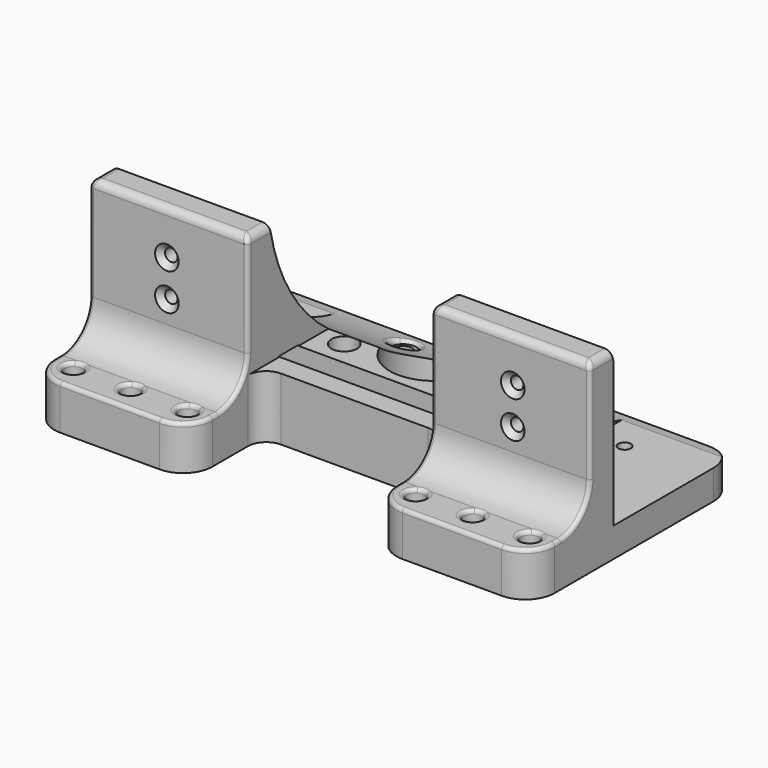
from build123d import *

# Parameters (mm, degrees)
SKETCH_W        = 136
SKETCH_H        = 70
PAD_DEPTH       = 50
SKETCH001_R     = 51.2
SKETCH001_W     = 6.5
SKETCH001_H     = 6.5
POCKET_DEPTH    = 136.001
SKETCH002_W     = 100
SKETCH002_H     = 100
POCKET001_DEPTH = 29
SKETCH003_W     = 100
SKETCH003_H     = 100
POCKET002_DEPTH = 29
SKETCH004_R     = 1.7
SKETCH004_W     = 50
SKETCH004_H     = 100
POCKET003_DEPTH = 70.001
SKETCH005_R     = 1.7
SKETCH005_R_2   = 12
SKETCH005_R_3   = 2.5
POCKET004_DEPTH = 50.001
SKETCH006_R     = 3.5
POCKET005_DEPTH = 10
SKETCH007_R     = 2.6
POCKET006_DEPTH = 5
SKETCH008_R     = 1.5
POCKET007_DEPTH = 15
SKETCH009_R     = 1.5
POCKET008_DEPTH = 15
FILLET_R        = 8
FILLET001_R     = 8
FILLET002_R     = 8
FILLET003_R     = 8
FILLET004_R     = 8
FILLET005_R     = 8
CHAMFER_SIZE    = 1.5
CHAMFER001_SIZE = 1.5
CHAMFER002_SIZE = 1.5
CHAMFER003_SIZE = 1.5
CHAMFER004_SIZE = 1.5
CHAMFER005_SIZE = 1.5
CHAMFER006_SIZE = 1.5
CHAMFER007_SIZE = 1.5
CHAMFER008_SIZE = 1
CHAMFER009_SIZE = 1
CHAMFER010_SIZE = 1
CHAMFER011_SIZE = 1
CHAMFER012_SIZE = 1
CHAMFER013_SIZE = 1
FILLET006_R     = 1
FILLET007_R     = 1
FILLET008_R     = 1
FILLET009_R     = 1
FILLET010_R     = 1
FILLET011_R     = 1
FILLET012_R     = 1
FILLET013_R     = 1
FILLET014_R     = 2
FILLET015_R     = 2
FILLET016_R     = 1
FILLET017_R     = 1


with BuildPart() as part:
    # Sketch → Pad (new body)
    with BuildSketch(Plane.XY):
        with Locations((0, -123)):
            Rectangle(SKETCH_W, SKETCH_H)
    extrude(amount=PAD_DEPTH)

    # Sketch001 → Pocket (cut, through all)
    with BuildSketch(Plane(origin=(-68, 0, 0), x_dir=(0, -1, 0), z_dir=(-1, 0, 0))):
        with Locations((80, 58)):
            Circle(SKETCH001_R)
        with Locations((124, 14)):
            Rectangle(SKETCH001_W, SKETCH001_H)
        with BuildLine():
            Line((138, 112), (178, 112))
            Line((178, 112), (178, 12))
            Line((178, 12), (148, 12))
            ThreePointArc((138, 22), (140.928932, 14.928932), (148, 12))
            Line((138, 22), (138, 112))
        make_face()
    extrude(amount=-POCKET_DEPTH, mode=Mode.SUBTRACT)

    # Sketch002 → Pocket001 (cut)
    with BuildSketch(Plane(origin=(-68, 0, 0), x_dir=(0, -1, 0), z_dir=(-1, 0, 0))):
        with Locations((80, 58)):
            Rectangle(SKETCH002_W, SKETCH002_H)
    extrude(amount=-POCKET001_DEPTH, mode=Mode.SUBTRACT)

    # Sketch003 → Pocket002 (cut)
    with BuildSketch(Plane.YZ.offset(68)):
        with Locations((-80, 58)):
            Rectangle(SKETCH003_W, SKETCH003_H)
    extrude(amount=-POCKET002_DEPTH, mode=Mode.SUBTRACT)

    # Sketch004 → Pocket003 (cut, through all)
    with BuildSketch(Plane.XZ.offset(158)):
        with Locations((-47, 38)):
            Circle(SKETCH004_R)
        with Locations((-47, 28)):
            Circle(SKETCH004_R)
        with Locations((47, 38)):
            Circle(SKETCH004_R)
        with Locations((47, 28)):
            Circle(SKETCH004_R)
        with Locations((0, 67)):
            Rectangle(SKETCH004_W, SKETCH004_H)
    extrude(amount=-POCKET003_DEPTH, mode=Mode.SUBTRACT)

    # Sketch005 → Pocket004 (cut, through all)
    with BuildSketch(Plane(origin=(0, 0, 0), x_dir=(1, 0, 0), z_dir=(0, 0, -1))):
        with Locations((-47, 110)):
            Circle(SKETCH005_R)
        with Locations((-47, 100)):
            Circle(SKETCH005_R)
        with Locations((47, 110)):
            Circle(SKETCH005_R)
        with Locations((47, 100)):
            Circle(SKETCH005_R)
        with Locations((0, 106)):
            Circle(SKETCH005_R_2)
        with Locations((-18, 114)):
            Circle(SKETCH005_R)
        with Locations((18, 114)):
            Circle(SKETCH005_R)
        with Locations((18, 94)):
            Circle(SKETCH005_R)
        with Locations((-18, 94)):
            Circle(SKETCH005_R)
        with Locations((-62, 151)):
            Circle(SKETCH005_R_3)
        with Locations((-46.5, 151)):
            Circle(SKETCH005_R_3)
        with Locations((-31, 151)):
            Circle(SKETCH005_R_3)
        with Locations((31, 151)):
            Circle(SKETCH005_R_3)
        with Locations((46.5, 151)):
            Circle(SKETCH005_R_3)
        with Locations((62, 151)):
            Circle(SKETCH005_R_3)
        with BuildLine():
            ThreePointArc((-25, 138), (-23.535534, 134.464466), (-20, 133))
            Line((-20, 133), (20, 133))
            ThreePointArc((20, 133), (23.535534, 134.464466), (25, 138))
            Line((25, 158), (25, 138))
            Line((-25, 158), (25, 158))
            Line((-25, 138), (-25, 158))
        make_face()
    extrude(amount=-POCKET004_DEPTH, mode=Mode.SUBTRACT)

    # Sketch006 → Pocket005 (cut)
    with BuildSketch(Plane.XY.offset(17)):
        with Locations((-18, -94)):
            Circle(SKETCH006_R)
        with Locations((18, -94)):
            Circle(SKETCH006_R)
        with Locations((18, -114)):
            Circle(SKETCH006_R)
        with Locations((-18, -114)):
            Circle(SKETCH006_R)
    extrude(amount=-POCKET005_DEPTH, mode=Mode.SUBTRACT)

    # Sketch007 → Pocket006 (cut)
    with BuildSketch(Plane.XY.offset(7)):
        with Locations((-18, -114)):
            Circle(SKETCH007_R)
        with Locations((18, -114)):
            Circle(SKETCH007_R)
        with Locations((-18, -94)):
            Circle(SKETCH007_R)
        with Locations((18, -94)):
            Circle(SKETCH007_R)
    extrude(amount=-POCKET006_DEPTH, mode=Mode.SUBTRACT)

    # Sketch008 → Pocket007 (cut)
    with BuildSketch(Plane(origin=(-39, 0, 0), x_dir=(0, -1, 0), z_dir=(-1, 0, 0))):
        with Locations((115, 14)):
            Circle(SKETCH008_R)
    extrude(amount=-POCKET007_DEPTH, mode=Mode.SUBTRACT)

    # Sketch009 → Pocket008 (cut)
    with BuildSketch(Plane.YZ.offset(39)):
        with Locations((-115, 14)):
            Circle(SKETCH009_R)
    extrude(amount=-POCKET008_DEPTH, mode=Mode.SUBTRACT)

    # Fillet
    fillet_edges = [part.edges().sort_by_distance(p)[0] for p in [
        (68, -158, 6),
    ]]
    fillet(fillet_edges, radius=FILLET_R)

    # Fillet001
    fillet001_edges = [part.edges().sort_by_distance(p)[0] for p in [
        (25, -158, 6),
    ]]
    fillet(fillet001_edges, radius=FILLET001_R)

    # Fillet002
    fillet002_edges = [part.edges().sort_by_distance(p)[0] for p in [
        (-25, -158, 6),
    ]]
    fillet(fillet002_edges, radius=FILLET002_R)

    # Fillet003
    fillet003_edges = [part.edges().sort_by_distance(p)[0] for p in [
        (-68, -158, 6),
    ]]
    fillet(fillet003_edges, radius=FILLET003_R)

    # Fillet004
    fillet004_edges = [part.edges().sort_by_distance(p)[0] for p in [
        (-68, -88, 3.714431),
    ]]
    fillet(fillet004_edges, radius=FILLET004_R)

    # Fillet005
    fillet005_edges = [part.edges().sort_by_distance(p)[0] for p in [
        (68, -88, 3.714431),
    ]]
    fillet(fillet005_edges, radius=FILLET005_R)

    # Chamfer
    chamfer_edges = [part.edges().sort_by_distance(p)[0] for p in [
        (45.3, -138, 38),
    ]]
    chamfer(chamfer_edges, length=CHAMFER_SIZE)

    # Chamfer001
    chamfer001_edges = [part.edges().sort_by_distance(p)[0] for p in [
        (45.3, -138, 28),
    ]]
    chamfer(chamfer001_edges, length=CHAMFER001_SIZE)

    # Chamfer002
    chamfer002_edges = [part.edges().sort_by_distance(p)[0] for p in [
        (-48.7, -138, 38),
    ]]
    chamfer(chamfer002_edges, length=CHAMFER002_SIZE)

    # Chamfer003
    chamfer003_edges = [part.edges().sort_by_distance(p)[0] for p in [
        (-48.7, -138, 28),
    ]]
    chamfer(chamfer003_edges, length=CHAMFER003_SIZE)

    # Chamfer004
    chamfer004_edges = [part.edges().sort_by_distance(p)[0] for p in [
        (45.3, -110, 0),
    ]]
    chamfer(chamfer004_edges, length=CHAMFER004_SIZE)

    # Chamfer005
    chamfer005_edges = [part.edges().sort_by_distance(p)[0] for p in [
        (45.3, -100, 0),
    ]]
    chamfer(chamfer005_edges, length=CHAMFER005_SIZE)

    # Chamfer006
    chamfer006_edges = [part.edges().sort_by_distance(p)[0] for p in [
        (-48.7, -100, 0),
    ]]
    chamfer(chamfer006_edges, length=CHAMFER006_SIZE)

    # Chamfer007
    chamfer007_edges = [part.edges().sort_by_distance(p)[0] for p in [
        (-48.7, -110, 0),
    ]]
    chamfer(chamfer007_edges, length=CHAMFER007_SIZE)

    # Chamfer008
    chamfer008_edges = [part.edges().sort_by_distance(p)[0] for p in [
        (59.5, -151, 0),
    ]]
    chamfer(chamfer008_edges, length=CHAMFER008_SIZE)

    # Chamfer009
    chamfer009_edges = [part.edges().sort_by_distance(p)[0] for p in [
        (44, -151, 0),
    ]]
    chamfer(chamfer009_edges, length=CHAMFER009_SIZE)

    # Chamfer010
    chamfer010_edges = [part.edges().sort_by_distance(p)[0] for p in [
        (28.5, -151, 0),
    ]]
    chamfer(chamfer010_edges, length=CHAMFER010_SIZE)

    # Chamfer011
    chamfer011_edges = [part.edges().sort_by_distance(p)[0] for p in [
        (-64.5, -151, 0),
    ]]
    chamfer(chamfer011_edges, length=CHAMFER011_SIZE)

    # Chamfer012
    chamfer012_edges = [part.edges().sort_by_distance(p)[0] for p in [
        (-49, -151, 0),
    ]]
    chamfer(chamfer012_edges, length=CHAMFER012_SIZE)

    # Chamfer013
    chamfer013_edges = [part.edges().sort_by_distance(p)[0] for p in [
        (-33.5, -151, 0),
    ]]
    chamfer(chamfer013_edges, length=CHAMFER013_SIZE)

    # Fillet006
    fillet006_edges = [part.edges().sort_by_distance(p)[0] for p in [
        (59.5, -151, 12),
    ]]
    fillet(fillet006_edges, radius=FILLET006_R)

    # Fillet007
    fillet007_edges = [part.edges().sort_by_distance(p)[0] for p in [
        (44, -151, 12),
    ]]
    fillet(fillet007_edges, radius=FILLET007_R)

    # Fillet008
    fillet008_edges = [part.edges().sort_by_distance(p)[0] for p in [
        (28.5, -151, 12),
    ]]
    fillet(fillet008_edges, radius=FILLET008_R)

    # Fillet009
    fillet009_edges = [part.edges().sort_by_distance(p)[0] for p in [
        (-33.5, -151, 12),
    ]]
    fillet(fillet009_edges, radius=FILLET009_R)

    # Fillet010
    fillet010_edges = [part.edges().sort_by_distance(p)[0] for p in [
        (-49, -151, 12),
    ]]
    fillet(fillet010_edges, radius=FILLET010_R)

    # Fillet011
    fillet011_edges = [part.edges().sort_by_distance(p)[0] for p in [
        (-64.5, -151, 12),
    ]]
    fillet(fillet011_edges, radius=FILLET011_R)

    # Fillet012
    fillet012_edges = [part.edges().sort_by_distance(p)[0] for p in [
        (46.5, -158, 12),
    ]]
    fillet(fillet012_edges, radius=FILLET012_R)

    # Fillet013
    fillet013_edges = [part.edges().sort_by_distance(p)[0] for p in [
        (-46.5, -158, 12),
    ]]
    fillet(fillet013_edges, radius=FILLET013_R)

    # Fillet014
    fillet014_edges = [part.edges().sort_by_distance(p)[0] for p in [
        (46.5, -138, 50),
    ]]
    fillet(fillet014_edges, radius=FILLET014_R)

    # Fillet015
    fillet015_edges = [part.edges().sort_by_distance(p)[0] for p in [
        (-46.5, -138, 50),
    ]]
    fillet(fillet015_edges, radius=FILLET015_R)

    # Fillet016
    fillet016_edges = [part.edges().sort_by_distance(p)[0] for p in [
        (15.499033, -96.448503, 9.514056),
    ]]
    fillet(fillet016_edges, radius=FILLET016_R)

    # Fillet017
    fillet017_edges = [part.edges().sort_by_distance(p)[0] for p in [
        (-20.500967, -96.448503, 9.514056),
    ]]
    fillet(fillet017_edges, radius=FILLET017_R)


solid = part.part
